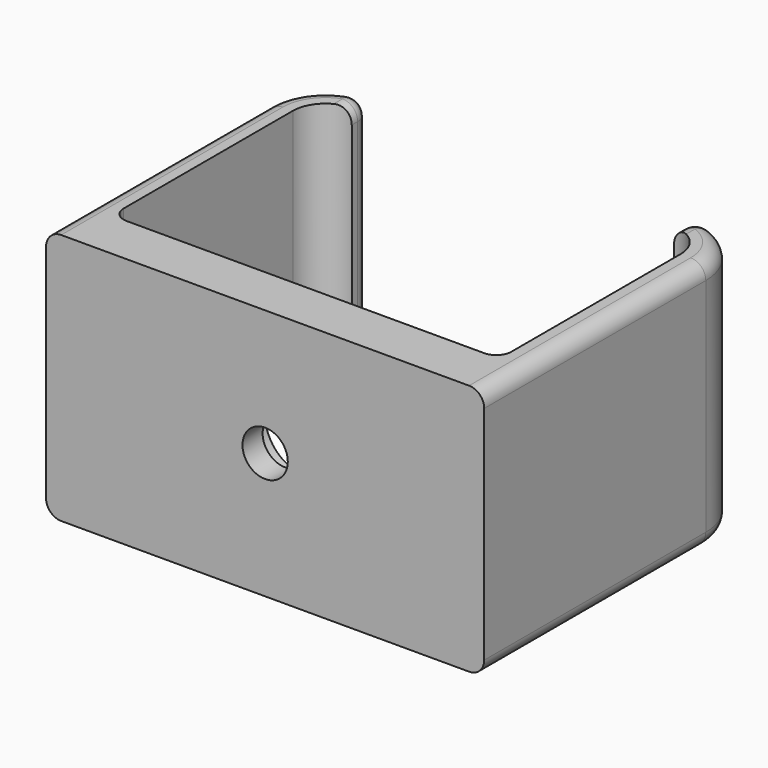
from build123d import *

# Parameters (mm, degrees)
F1_DEPTH = 25.4
F2_R     = 2.286
F3_DEPTH = 5.08
F4_R     = 4.064
F5_DEPTH = 2.54
F6_R     = 1.524


with BuildPart() as f1:
    # F0 (on Top) → F1 (new body)
    with BuildSketch(Plane.XY):
        with BuildLine():
            ThreePointArc((-16.256, 28.702), (-20.386918, 26.990918), (-22.098, 22.86))
            Line((-22.098, 22.86), (-22.098, -5.08))
            Line((-22.098, -5.08), (22.098, -5.08))
            Line((22.098, -5.08), (22.098, 22.86))
            ThreePointArc((22.098, 22.86), (20.386918, 26.990918), (16.256, 28.702))
            Line((16.256, 28.702), (16.256, 26.162))
            ThreePointArc((16.256, 26.162), (18.590867, 25.194867), (19.558, 22.86))
            Line((19.558, 22.86), (19.558, 0))
            Line((19.558, 0), (-19.558, 0))
            Line((-19.558, 0), (-19.558, 22.86))
            ThreePointArc((-19.558, 22.86), (-18.590867, 25.194867), (-16.256, 26.162))
            Line((-16.256, 26.162), (-16.256, 28.702))
        make_face()
    extrude(amount=F1_DEPTH)

    # F2 (on face) → F3 (cut, through all)
    with BuildSketch(Plane.XZ.offset(5.08)):
        with Locations((0, 12.7)):
            Circle(F2_R)
    extrude(amount=-F3_DEPTH, mode=Mode.SUBTRACT)

    # F4 (on face) → F5 (cut)
    with BuildSketch(Plane(origin=(0, 0, 0), x_dir=(-1, 0, 0), z_dir=(0, 1, 0))):
        with Locations((0, 12.7)):
            Circle(F4_R)
    extrude(amount=-F5_DEPTH, mode=Mode.SUBTRACT)

    # F6
    f6_edges = [f1.edges().sort_by_distance(p)[0] for p in [
        (-20.386918, 26.990918, 25.4),
        (20.386918, 26.990918, 25.4),
        (20.386918, 26.990918, 0),
        (-22.098, 8.89, 0),
        (-19.558, 0, 12.7),
        (19.558, 0, 12.7),
        (-16.256, 28.702, 12.7),
        (16.256, 28.702, 12.7),
        (-16.256, 27.432, 25.4),
        (16.256, 27.432, 25.4),
        (16.256, 27.432, 0),
        (-16.256, 27.432, 0),
    ]]
    fillet(f6_edges, radius=F6_R)


solid = f1.part
